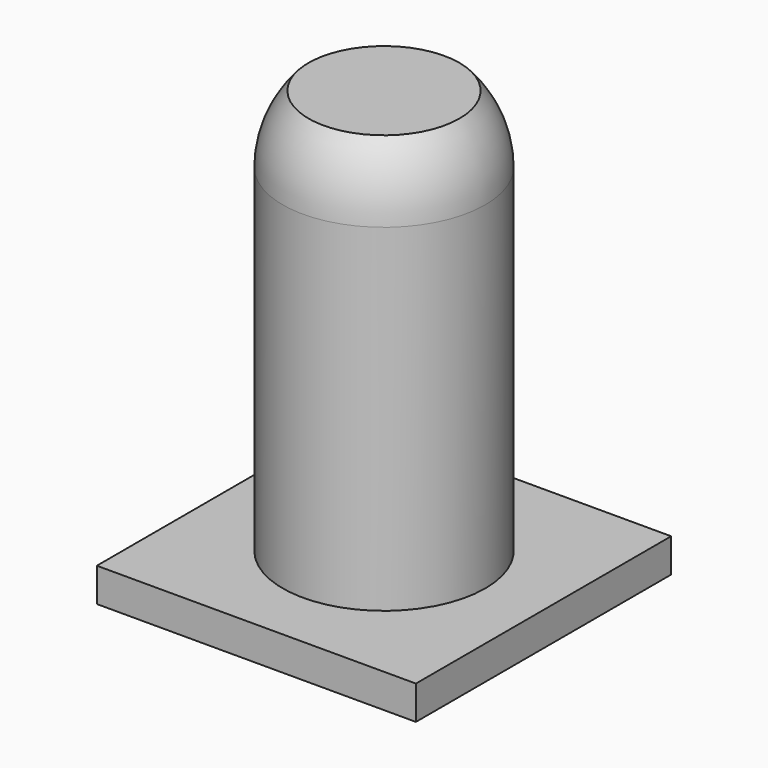
from build123d import *

# Parameters (mm, degrees)
F0_W     = 60
F0_H     = 60
F0_R     = 19.05
F1_DEPTH = 6.35
F2_W     = 19.05
F2_H     = 6.2725590542
F2_H_2   = 63.4925590542


with BuildPart() as f1:
    # F0 (on Top) → F1 (new body)
    with BuildSketch(Plane.XY):
        Rectangle(F0_W, F0_H)
        Circle(F0_R, mode=Mode.SUBTRACT)
    extrude(amount=F1_DEPTH)

    # F2 (on Front) → F3 (revolve)
    with BuildSketch(Plane.XZ):
        with Locations((9.525, 3.1362795271)):
            Rectangle(F2_W, F2_H)
        with Locations((9.525, 38.0962795271)):
            Rectangle(F2_W, F2_H_2)
        with BuildLine():
            Line((0, 82.55), (0, 69.8425590542))
            Line((0, 69.8425590542), (19.05, 69.8425590542))
            ThreePointArc((19.05, 69.8425590542), (17.7942013183, 76.6446836814), (14.1923727618, 82.55))
            Line((14.1923727618, 82.55), (0, 82.55))
        make_face()
    revolve(axis=Axis((0, 0, 98.337154819), (0, 0, 1)))


solid = f1.part
